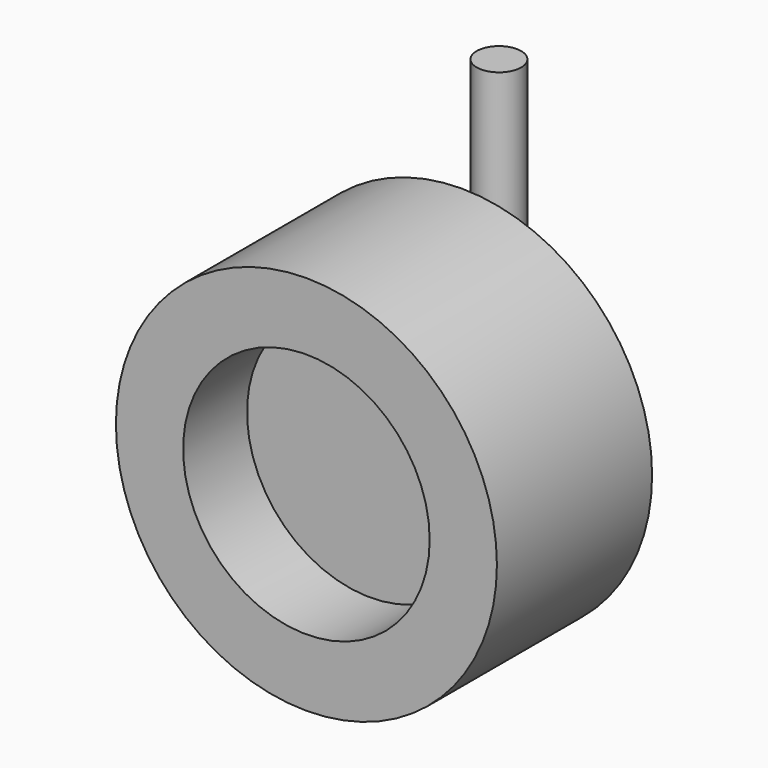
from build123d import *

# Parameters (mm, degrees)
F1_R     = 0.495153
F2_DEPTH = 0.508
F3_DEPTH = 6.35
F0_R     = 4.240478
F0_R_2   = 2.744131
F4_DEPTH = 4.318
F5_DEPTH = 2.54


with BuildPart() as f2:
    # F1 (on Top) → F2 (new body)
    with BuildSketch(Plane.XY):
        Polygon((-1.266696, 0), (0, 0), (1.28054, 0), (1.28054, 2.098693), (-1.266696, 2.098693), align=None)
        with Locations((0, 1.039653)):
            Circle(F1_R, mode=Mode.SUBTRACT)
        with Locations((0, 1.039653)):
            Circle(F1_R)
    extrude(amount=F2_DEPTH)


with BuildPart() as f3:
    # F1 (on Top) → F3 (new body)
    with BuildSketch(Plane.XY):
        with Locations((0, 1.039653)):
            Circle(F1_R)
    extrude(amount=F3_DEPTH)


with BuildPart() as f4:
    # F0 (on Front) → F4 (new body)
    with BuildSketch(Plane.XZ):
        Circle(F0_R)
        Circle(F0_R_2, mode=Mode.SUBTRACT)
    extrude(amount=F4_DEPTH)


with BuildPart() as f5:
    # F0 (on Front) → F5 (new body)
    with BuildSketch(Plane.XZ):
        Circle(F0_R_2)
    extrude(amount=F5_DEPTH)


solid = Compound([f2.part, f3.part, f4.part, f5.part])
